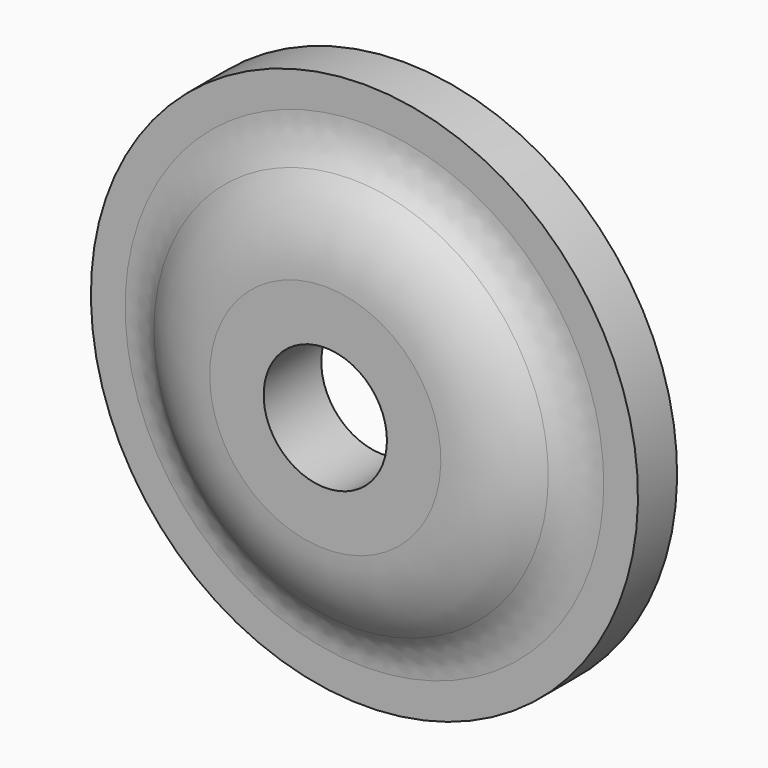
from build123d import *

# Parameters (mm, degrees)
F2_R     = 8
F3_DEPTH = 12.701
F4_R     = 8


with BuildPart() as f1:
    # F0 (on Right) → F1 (revolve)
    with BuildSketch(Plane.YZ):
        with BuildLine():
            Line((-12.7, 15), (-12.7, 0))
            Line((-12.7, 0), (-3.35, 0))
            Line((-3.35, 0), (-3.35, 15))
            add(Edge.make_bspline(
                [(-3.35, 15), (-3.35, 20.828191), (0, 22.027135), (0, 27.5)],
                knots=[0, 0, 0, 0, 12.941117, 12.941117, 12.941117, 12.941117], degree=3))
            Line((0, 27.5), (0, 35.5))
            Line((0, 35.5), (-6.35, 35.5))
            Line((-6.35, 35.5), (-6.35, 27.5))
            ThreePointArc((-6.35, 27.5), (-11.021488, 22.010216), (-12.7, 15))
        make_face()
    revolve(axis=Axis((0, -9.5, 0), (0, -1, 0)))

    # F2 (on face) → F3 (cut, through all)
    with BuildSketch(Plane.XZ.offset(12.7)):
        Circle(F2_R)
    extrude(amount=-F3_DEPTH, mode=Mode.SUBTRACT)

    # F4
    f4_edges = [f1.edges().sort_by_distance(p)[0] for p in [
        (0, -6.35, -27.5),
    ]]
    fillet(f4_edges, radius=F4_R)


solid = f1.part
